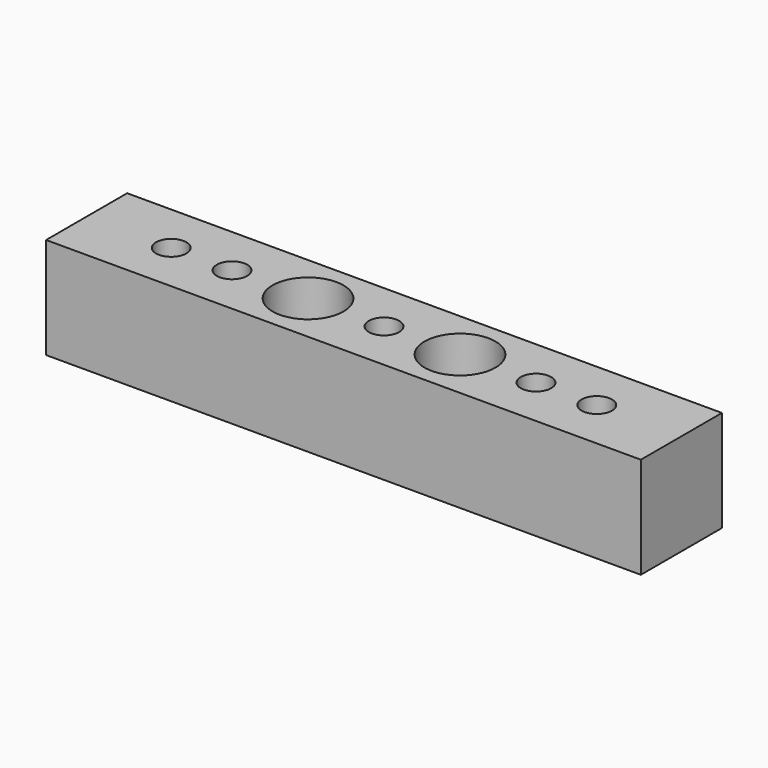
from build123d import *

# Parameters (mm, degrees)
F0_W     = 58.7
F0_H     = 10
F0_R     = 1.5
F0_R_2   = 3.5
F1_DEPTH = 10


with BuildPart() as f1:
    # F0 (on Top) → F1 (new body)
    with BuildSketch(Plane.XY):
        Rectangle(F0_W, F0_H)
        with Locations((-21, 0)):
            Circle(F0_R, mode=Mode.SUBTRACT)
        with Locations((-15, 0)):
            Circle(F0_R, mode=Mode.SUBTRACT)
        with Locations((-7.5, 0)):
            Circle(F0_R_2, mode=Mode.SUBTRACT)
        Circle(F0_R, mode=Mode.SUBTRACT)
        with Locations((7.5, 0)):
            Circle(F0_R_2, mode=Mode.SUBTRACT)
        with Locations((15, 0)):
            Circle(F0_R, mode=Mode.SUBTRACT)
        with Locations((21, 0)):
            Circle(F0_R, mode=Mode.SUBTRACT)
    extrude(amount=F1_DEPTH)


solid = f1.part
